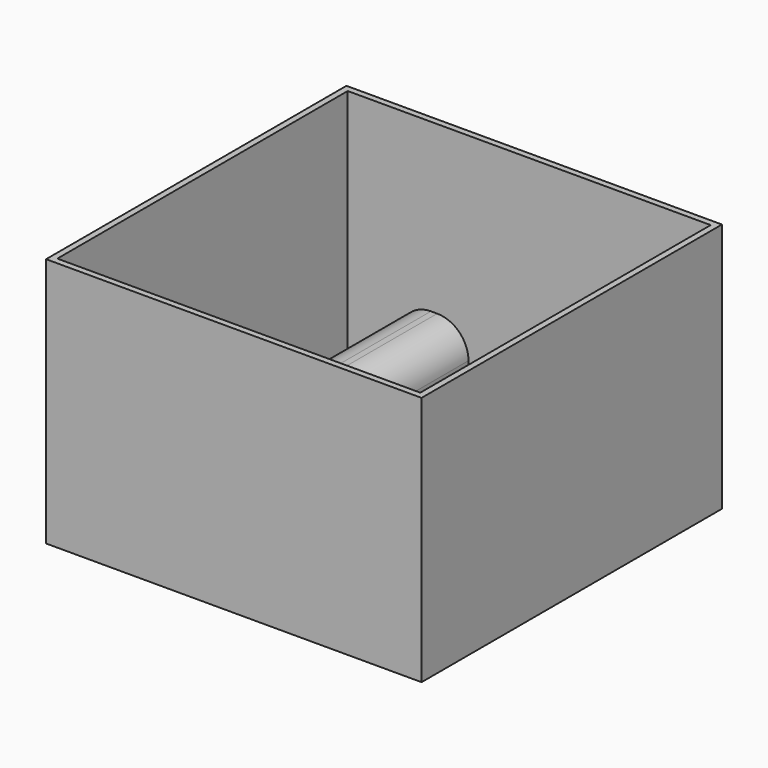
from build123d import *

# Parameters (mm, degrees)
F0_W     = 152.4
F0_H     = 152.4
F1_DEPTH = 101.6
F2_T     = -2.54
F3_R     = 5.08
F4_DEPTH = 149.86
F5_W     = 27.94
F5_H     = 50.8
F6_DEPTH = 63.5
F7_R     = 12.954
F8_DEPTH = 50.8
F9_R     = 12.7
F10_R    = 12.7


with BuildPart() as f1:
    # F0 (on Top) → F1 (new body)
    with BuildSketch(Plane.XY):
        Rectangle(F0_W, F0_H)
    extrude(amount=F1_DEPTH)

    # F2
    f2_openings = [f1.faces().sort_by_distance(p)[0] for p in [
        (0, 0, 101.6),
    ]]
    offset(amount=F2_T, openings=f2_openings)

    # F3 (on face) → F4 (join)
    with BuildSketch(Plane(origin=(0, -73.66, 0), x_dir=(-1, 0, 0), z_dir=(0, 1, 0))):
        with Locations((-35.56, 40.64)):
            Circle(F3_R)
    extrude(amount=F4_DEPTH)

    # F5 (on face) → F6 (join)
    with BuildSketch(Plane.XY.offset(2.54)):
        Rectangle(F5_W, F5_H)
    extrude(amount=F6_DEPTH)

    # F7 (on face) → F8 (cut)
    with BuildSketch(Plane(origin=(0, 25.4, 0), x_dir=(-1, 0, 0), z_dir=(0, 1, 0))):
        with Locations((0, 34.29)):
            Circle(F7_R)
    extrude(amount=-F8_DEPTH, mode=Mode.SUBTRACT)

    # F9
    f9_edges = [f1.edges().sort_by_distance(p)[0] for p in [
        (-13.97, 0, 66.04),
    ]]
    fillet(f9_edges, radius=F9_R)

    # F10
    f10_edges = [f1.edges().sort_by_distance(p)[0] for p in [
        (13.97, 0, 66.04),
    ]]
    fillet(f10_edges, radius=F10_R)


solid = f1.part
